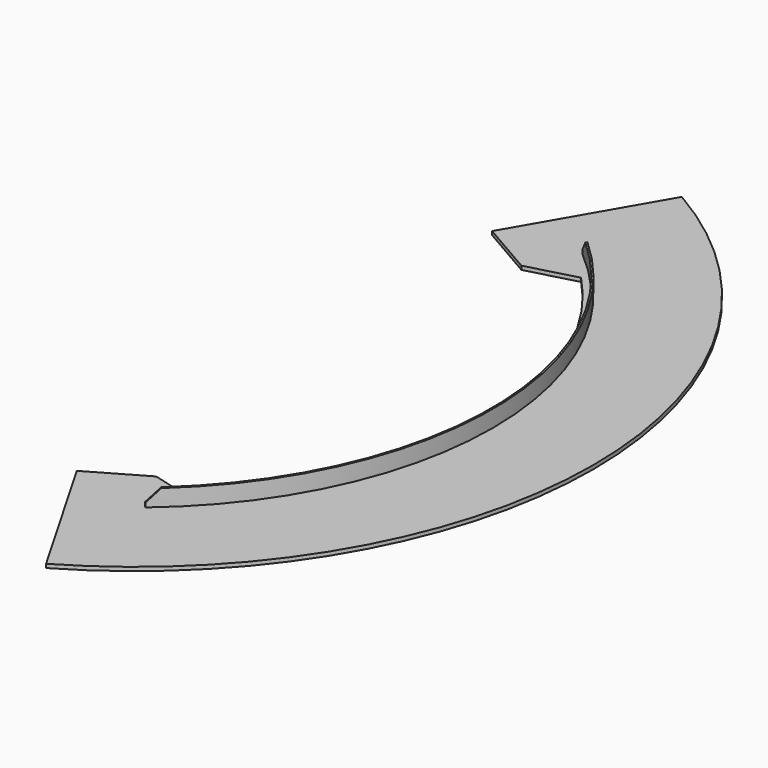
from build123d import *

# Parameters (mm, degrees)
F1_DEPTH = 9
F3_DEPTH = 40
F5_DEPTH = 9
F7_SIZE2 = 30
F7_SIZE  = 30


with BuildPart() as f1:
    # F0 (on Top) → F1 (new body)
    with BuildSketch(Plane.XY):
        with BuildLine():
            Line((418.25, -724.4302502657), (548.25, -949.5968552496))
            ThreePointArc((548.25, -949.5968552496), (1096.5, 0), (548.25, 949.5968552496))
            Line((548.25, 949.5968552496), (418.25, 724.4302502657))
            ThreePointArc((418.25, 724.4302502657), (836.5, 0), (418.25, -724.4302502657))
        make_face()
    extrude(amount=F1_DEPTH)

    # F2 (on face) → F3 (join)
    with BuildSketch(Plane.XY.offset(9)):
        with BuildLine():
            Line((547.9764372578, -653.0528877589), (550.5475876965, -656.1170655314))
            ThreePointArc((550.5475876965, -656.1170655314), (856.5, 0), (550.5475876965, 656.1170655314))
            Line((550.5475876965, 656.1170655314), (547.9764372578, 653.0528877589))
            ThreePointArc((547.9764372578, 653.0528877589), (852.5, 0), (547.9764372578, -653.0528877589))
        make_face()
    extrude(amount=F3_DEPTH)

    # F4 (on face) → F5 (join)
    with BuildSketch(Plane.XY):
        with BuildLine():
            Line((358.25, -620.5072018116), (418.25, -724.4302502657))
            ThreePointArc((418.25, -724.4302502657), (517.2313730049, -657.4222058765), (605.651725766, -576.9906733013))
            Line((605.651725766, -576.9906733013), (488.1538105677, -545.5072018115))
            Line((488.1538105677, -545.5072018115), (358.25, -620.5072018116))
        make_face()
    extrude(amount=F5_DEPTH)

    # F6: F1 across plane


with BuildPart() as f1_1:
    add(f1.part)
    add(f1.part.mirror(Plane.XZ))

    # F7
    f7_edges = [f1_1.edges().sort_by_distance(p)[0] for p in [
        (549.262012, -654.584977, 49),
        (549.262012, 654.584977, 49),
    ]]
    chamfer(f7_edges, length=F7_SIZE, length2=F7_SIZE2)


solid = f1_1.part
